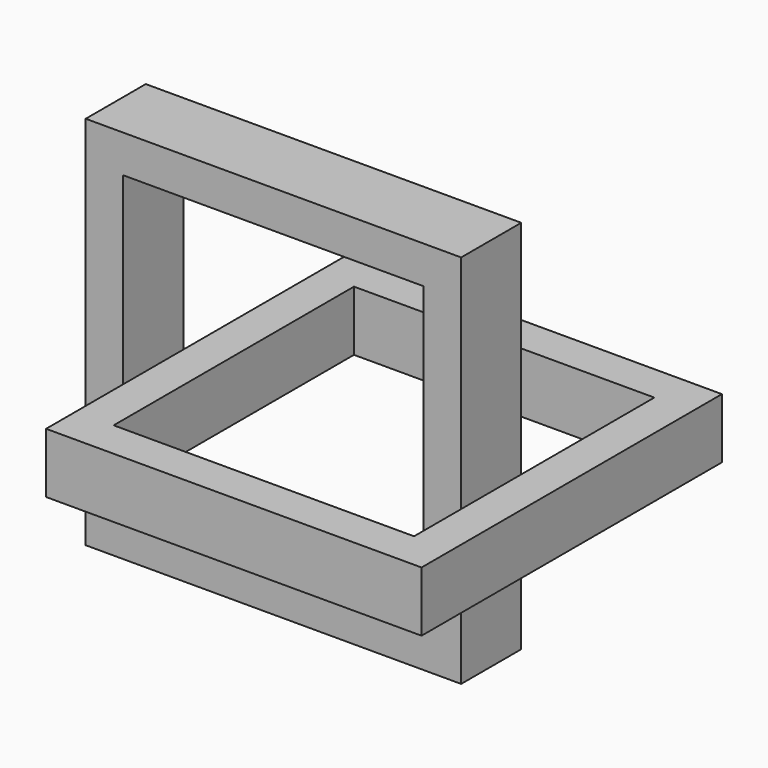
from build123d import *

# Parameters (mm, degrees)
F0_W     = 50
F0_H     = 50
F0_W_2   = 40
F0_H_2   = 40
F1_DEPTH = 10
F2_W     = 50
F2_H     = 50
F2_W_2   = 40
F2_H_2   = 40
F3_DEPTH = 8


with BuildPart() as f1:
    # F0 (on Front) → F1 (new body)
    with BuildSketch(Plane.XZ):
        Rectangle(F0_W, F0_H)
        Rectangle(F0_W_2, F0_H_2, mode=Mode.SUBTRACT)
    extrude(amount=F1_DEPTH)


with BuildPart() as f3:
    # F2 (on Top) → F3 (new body)
    with BuildSketch(Plane.XY):
        with Locations((20, -16.594469)):
            Rectangle(F2_W, F2_H)
        with Locations((20, -16.594469)):
            Rectangle(F2_W_2, F2_H_2, mode=Mode.SUBTRACT)
    extrude(amount=F3_DEPTH)


solid = Compound([f1.part, f3.part])
